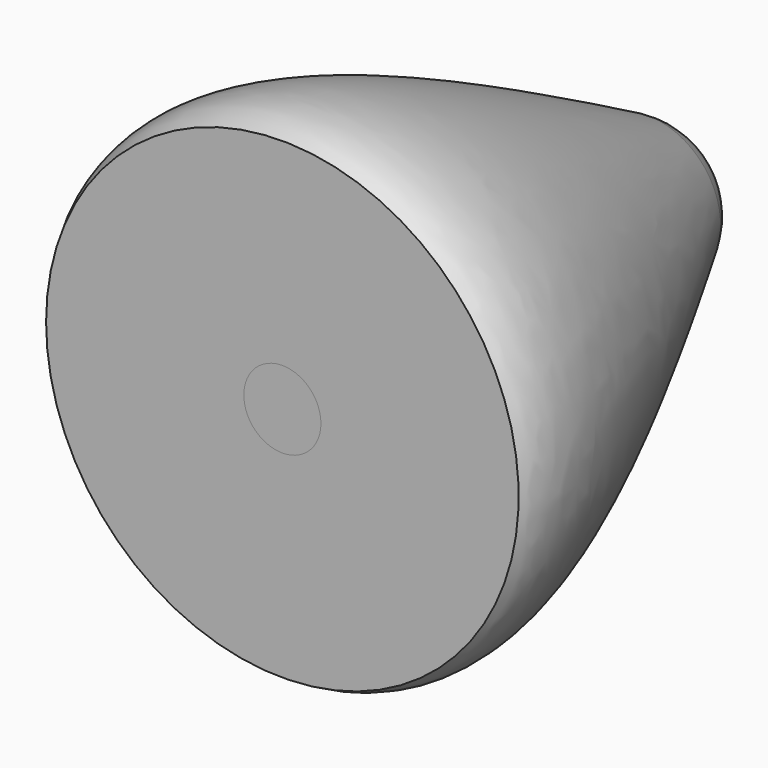
from build123d import *

# Parameters (mm, degrees)
F2_R     = 1.27
F3_DEPTH = 16.51
F4_R     = 1.27
F5_DEPTH = 7.62


with BuildPart() as f1:
    # F0 (on Top) → F1 (revolve)
    with BuildSketch(Plane.XY):
        with BuildLine():
            Line((0, 0), (0, 16.4697519217))
            ThreePointArc((0, 16.4697519217), (-1.3876289372, 16.0894012629), (-2.3873814073, 15.0546666642))
            add(Edge.make_bspline(
                [(-7.781725377, 0), (-9.1527554645, 2.0286652571), (-6.1443571696, 8.1885872655), (-2.3873814073, 15.0546666642)],
                knots=[0.3791424537, 0.3791424537, 0.3791424537, 0.3791424537, 0.8938765681, 0.8938765681, 0.8938765681, 0.8938765681], degree=3))
            Line((-7.781725377, 0), (0, 0))
        make_face()
    revolve(axis=Axis((0, 8.2348759608, 0), (0, -1, 0)))

    # F2 (on Front) → F3 (cut)
    with BuildSketch(Plane.XZ):
        Circle(F2_R)
    extrude(amount=-F3_DEPTH, mode=Mode.SUBTRACT)


with BuildPart() as f5:
    # F4 (on face) → F5 (new body)
    with BuildSketch(Plane.XZ):
        Circle(F4_R)
    extrude(amount=-F5_DEPTH)


solid = Compound([f1.part, f5.part])
